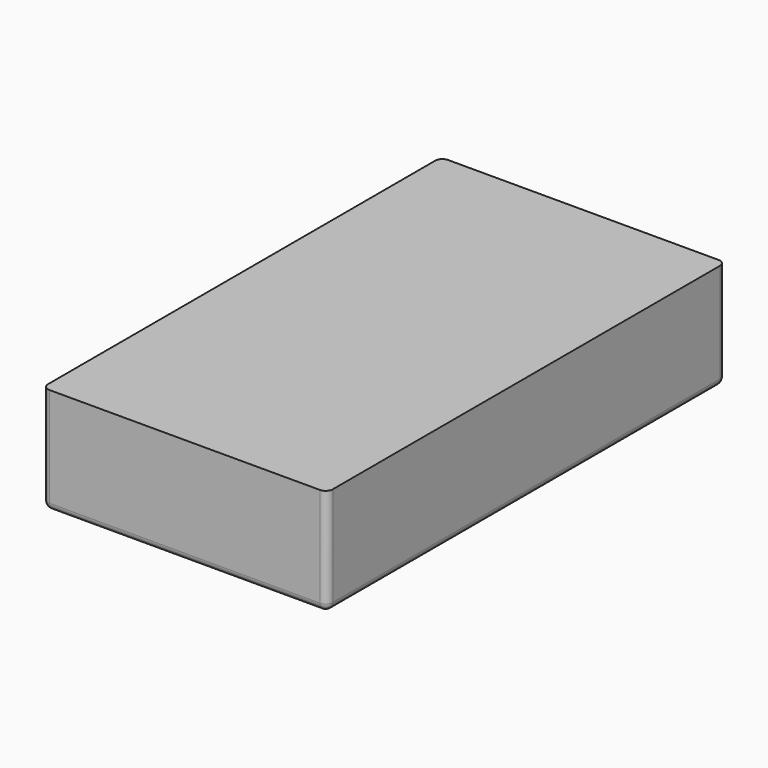
from build123d import *

# Parameters (mm, degrees)
F0_W     = 400
F0_H     = 700
F1_DEPTH = 150
F2_R     = 10
F3_R     = 10


with BuildPart() as f1:
    # F0 (on Top) → F1 (new body)
    with BuildSketch(Plane.XY):
        Rectangle(F0_W, F0_H)
    extrude(amount=F1_DEPTH)

    # F2
    f2_edges = [f1.edges().sort_by_distance(p)[0] for p in [
        (200, 350, 75),
        (200, -350, 75),
        (-200, -350, 75),
        (-200, 350, 75),
    ]]
    fillet(f2_edges, radius=F2_R)

    # F3
    f3_edges = [f1.edges().sort_by_distance(p)[0] for p in [
        (200, 0, 0),
        (0, 350, 0),
        (-200, 0, 0),
    ]]
    fillet(f3_edges, radius=F3_R)


solid = f1.part
